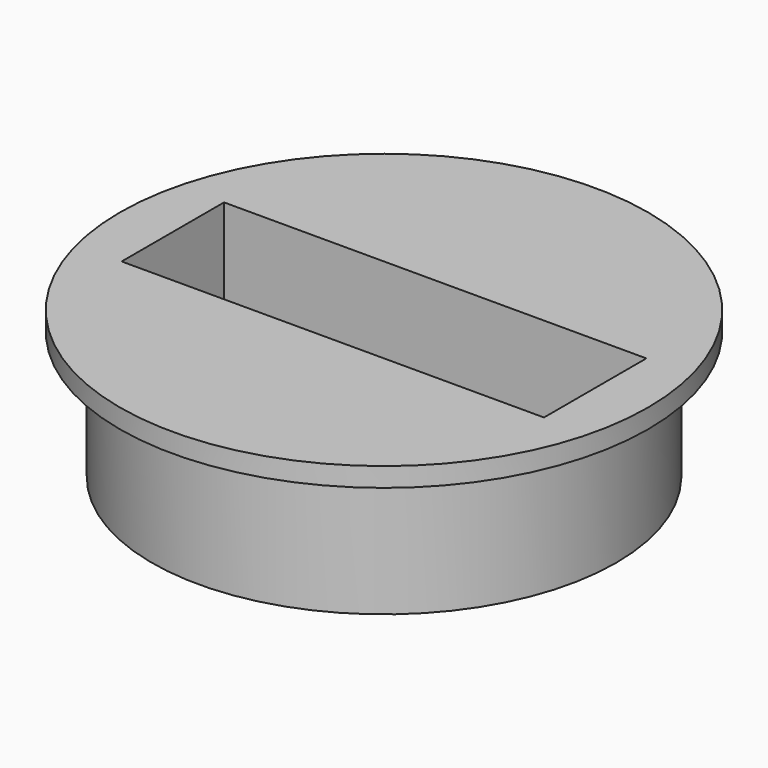
from build123d import *

# Parameters (mm, degrees)
F0_R     = 41.275
F1_DEPTH = 3
F2_W     = 66
F2_H     = 20
F3_DEPTH = 3.001
F4_R     = 36.275
F4_W     = 66
F4_H     = 20
F5_DEPTH = 20


with BuildPart() as f1:
    # F0 (on Top) → F1 (new body)
    with BuildSketch(Plane.XY):
        Circle(F0_R)
    extrude(amount=F1_DEPTH)

    # F2 (on face) → F3 (cut, through all)
    with BuildSketch(Plane.XY.offset(3)):
        Rectangle(F2_W, F2_H)
    extrude(amount=-F3_DEPTH, mode=Mode.SUBTRACT)

    # F4 (on face) → F5 (join)
    with BuildSketch(Plane(origin=(0, 0, 0), x_dir=(1, 0, 0), z_dir=(0, 0, -1))):
        Circle(F4_R)
        with BuildLine():
            ThreePointArc((30.874747, -13), (0, -33.5), (-30.874747, -13))
            Line((-30.874747, -13), (30.874747, -13))
        make_face(mode=Mode.SUBTRACT)
        Rectangle(F4_W, F4_H, mode=Mode.SUBTRACT)
        with BuildLine():
            ThreePointArc((-30.874747, 13), (0, 33.5), (30.874747, 13))
            Line((30.874747, 13), (-30.874747, 13))
        make_face(mode=Mode.SUBTRACT)
    extrude(amount=F5_DEPTH)


solid = f1.part
